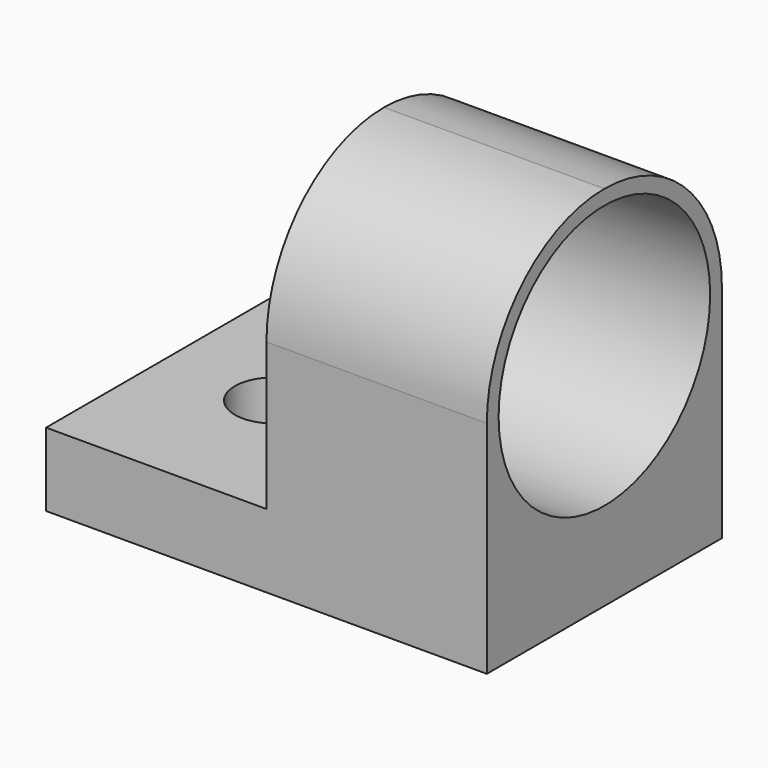
from build123d import *

# Parameters (mm, degrees)
SKETCH_W        = 30
SKETCH_H        = 20
PAD_DEPTH       = 5
SKETCH001_R     = 2.65
POCKET_DEPTH    = 5
SKETCH002_W     = 15
SKETCH002_H     = 20
PAD001_DEPTH    = 20
SKETCH003_R     = 9
POCKET001_DEPTH = 15
FILLET_R        = 9.99


with BuildPart() as part:
    # Sketch → Pad (new body)
    with BuildSketch(Plane.XY):
        Rectangle(SKETCH_W, SKETCH_H)
    extrude(amount=PAD_DEPTH)

    # Sketch001 (on Face6 of Pad) → Pocket (cut)
    with BuildSketch(Plane.XY.offset(5)):
        with Locations((-7.5, 0)):
            Circle(SKETCH001_R)
    extrude(amount=-POCKET_DEPTH, mode=Mode.SUBTRACT)

    # Sketch002 (on Face5 of Pocket) → Pad001 (join)
    with BuildSketch(Plane.XY.offset(5)):
        with Locations((7.5, 0)):
            Rectangle(SKETCH002_W, SKETCH002_H)
    extrude(amount=PAD001_DEPTH)

    # Sketch003 (on Face11 of Pad001) → Pocket001 (cut)
    with BuildSketch(Plane.YZ.offset(15)):
        with Locations((0, 15)):
            Circle(SKETCH003_R)
    extrude(amount=-POCKET001_DEPTH, mode=Mode.SUBTRACT)

    # Fillet
    fillet_edges = [part.edges().sort_by_distance(p)[0] for p in [
        (7.5, -10, 25),
        (7.5, 10, 25),
    ]]
    fillet(fillet_edges, radius=FILLET_R)


solid = part.part
